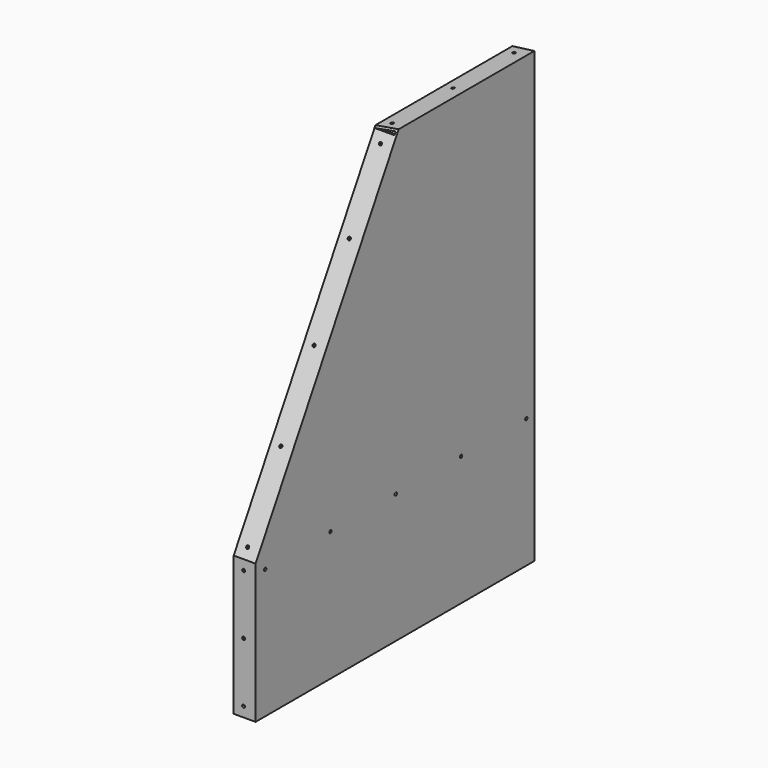
from build123d import *

# Parameters (mm, degrees)
PAD013_DEPTH         = 350
POCKET023_DEPTH      = 2.001
POCKET023_DEPTH_BACK = 20.001
PAD014_DEPTH         = 20
SKETCH047_R          = 1.5
POCKET025_DEPTH      = 5
SKETCH048_R          = 1.5
POCKET026_DEPTH      = 5
SKETCH049_R          = 1.5
POCKET027_DEPTH      = 5
SKETCH050_R          = 1.5
POCKET028_DEPTH      = 5
SKETCH066_R          = 1.5
POCKET042_DEPTH      = 5


with BuildPart() as part:
    # Sketch041 (on Face1 of Binder012) → Pad013 (new body)
    with BuildSketch(Plane(origin=(0, -0.1, 0), x_dir=(-1, 0, 0), z_dir=(0, 1, 0))):
        Polygon((278, -343.2), (278, 107.9236974595), (300, 105.0899380794), (300, 103.0899380794), (280, 105.9236974595), (280, -341.2), (300, -341.2), (300, -343.2), align=None)
    extrude(amount=PAD013_DEPTH)

    # Sketch042 (on Face5 of Pad013) → Pocket023 (cut, two sides)
    with BuildSketch(Plane(origin=(-280, 0, 0), x_dir=(0, -1, 0), z_dir=(-1, 0, 0))) as pocket023_sk:
        Polygon((0.1, -203.2), (-179.5273504795, 107.9236974595), (0.1, 107.9236974595), align=None)
    extrude(amount=-POCKET023_DEPTH, mode=Mode.SUBTRACT)
    extrude(pocket023_sk.sketch, amount=POCKET023_DEPTH_BACK, mode=Mode.SUBTRACT)

    # Sketch043 (on Face7 of Pocket023) → Pad014 (join)
    with BuildSketch(Plane(origin=(-280, 0, 0), x_dir=(0, -1, 0), z_dir=(-1, 0, 0))):
        Polygon((-176.7365782002, 103.0899380794), (0.1, -203.2), (0.1, -341.2), (-1.9, -341.2), (-1.9, -203.2), (-178.7365782002, 103.0899380794), align=None)
    extrude(amount=PAD014_DEPTH)

    # Sketch047 (on Face7 of Pad014) → Pocket025 (cut)
    with BuildSketch(Plane.XY.offset(-341.2)):
        with Locations((-290, 339.9)):
            Circle(SKETCH047_R)
        with Locations((-290, 262.9)):
            Circle(SKETCH047_R)
        with Locations((-290, 175.9)):
            Circle(SKETCH047_R)
        with Locations((-290, 93.9)):
            Circle(SKETCH047_R)
        with Locations((-290, 11.9)):
            Circle(SKETCH047_R)
    extrude(amount=-POCKET025_DEPTH, mode=Mode.SUBTRACT)

    # Sketch048 (on Face10 of Pocket025) → Pocket026 (cut)
    with BuildSketch(Plane(origin=(-20.2232565259, 0, 142.7309366364), x_dir=(0.9901109093, 0, 0.1402868038), z_dir=(0.1402868038, 0, -0.9901109093))):
        with Locations((-272.571115, -263.318289)):
            Circle(SKETCH048_R)
        with Locations((-272.571115, -186.736578)):
            Circle(SKETCH048_R)
        with Locations((-272.571115, -339.9)):
            Circle(SKETCH048_R)
    extrude(amount=-POCKET026_DEPTH, mode=Mode.SUBTRACT)

    # Sketch049 (on Face3 of Pocket026) → Pocket027 (cut)
    with BuildSketch(Plane(origin=(0, 87.9131810245, -50.7566987298), x_dir=(1, 0, 0), z_dir=(0, -0.8660254038, 0.5))):
        with Locations((-290, 167.646794)):
            Circle(SKETCH049_R)
        with Locations((-290, 89.228505)):
            Circle(SKETCH049_R)
        with Locations((-290, 0.810216)):
            Circle(SKETCH049_R)
        with Locations((-290, -82.608073)):
            Circle(SKETCH049_R)
        with Locations((-290, -166.026362)):
            Circle(SKETCH049_R)
    extrude(amount=-POCKET027_DEPTH, mode=Mode.SUBTRACT)

    # Sketch050 (on Face26 of Pocket027) → Pocket028 (cut)
    with BuildSketch(Plane(origin=(0, 1.9, 0), x_dir=(-1, 0, 0), z_dir=(0, 1, 0))):
        with Locations((290, -213.2)):
            Circle(SKETCH050_R)
        with Locations((290, -273.2)):
            Circle(SKETCH050_R)
        with Locations((290, -333.2)):
            Circle(SKETCH050_R)
    extrude(amount=-POCKET028_DEPTH, mode=Mode.SUBTRACT)

    # Sketch066 (on Face1 of Binder019) → Pocket042 (cut)
    with BuildSketch(Plane.YZ.offset(-276)):
        with Locations((339.9, -213.2)):
            Circle(SKETCH066_R)
        with Locations((257.9, -213.2)):
            Circle(SKETCH066_R)
        with Locations((175.9, -213.2)):
            Circle(SKETCH066_R)
        with Locations((93.9, -213.2)):
            Circle(SKETCH066_R)
        with Locations((11.9, -213.2)):
            Circle(SKETCH066_R)
    extrude(amount=-POCKET042_DEPTH, mode=Mode.SUBTRACT)


solid = part.part
